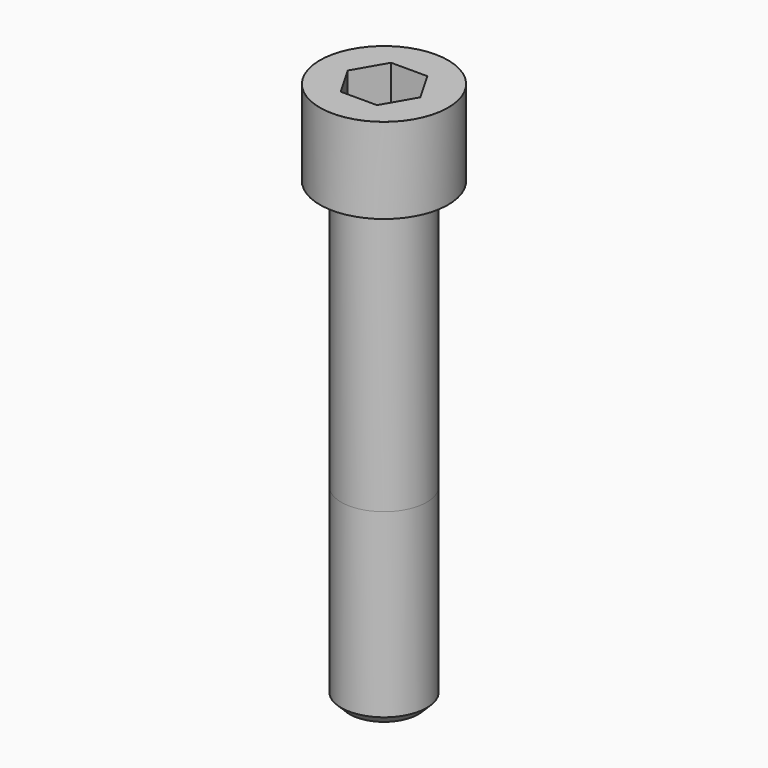
from build123d import *

# Parameters (mm, degrees)
POCKET_DEPTH = 41.15


with BuildPart() as part:
    # Sketch → Revolve (revolve)
    with BuildSketch(Plane.YZ):
        with BuildLine():
            Line((27.999, 0), (42, 0))
            Line((42, 0), (42, 55.97229))
            ThreePointArc((42, 55.97229), (41.991884, 55.991884), (41.97229, 56))
            Line((41.97229, 56), (0, 56))
            Line((0, -300), (0, 56))
            Line((22.5, -300), (0, -300))
            Line((28, -294.5), (22.5, -300))
            Line((28, -176), (28, -294.5))
            Line((27.999, 0), (28, -176))
        make_face()
    revolve(axis=Axis((0, 0, 0), (0, 0, 1)))

    # Sketch001 → Pocket (cut)
    with BuildSketch(Plane.XY.offset(56)):
        Polygon((23.757964, 0), (11.878982, 20.575), (-11.878982, 20.575), (-23.757964, 0), (-11.878982, -20.575), (11.878982, -20.575), align=None)
    extrude(amount=-POCKET_DEPTH, mode=Mode.SUBTRACT)


solid = part.part
